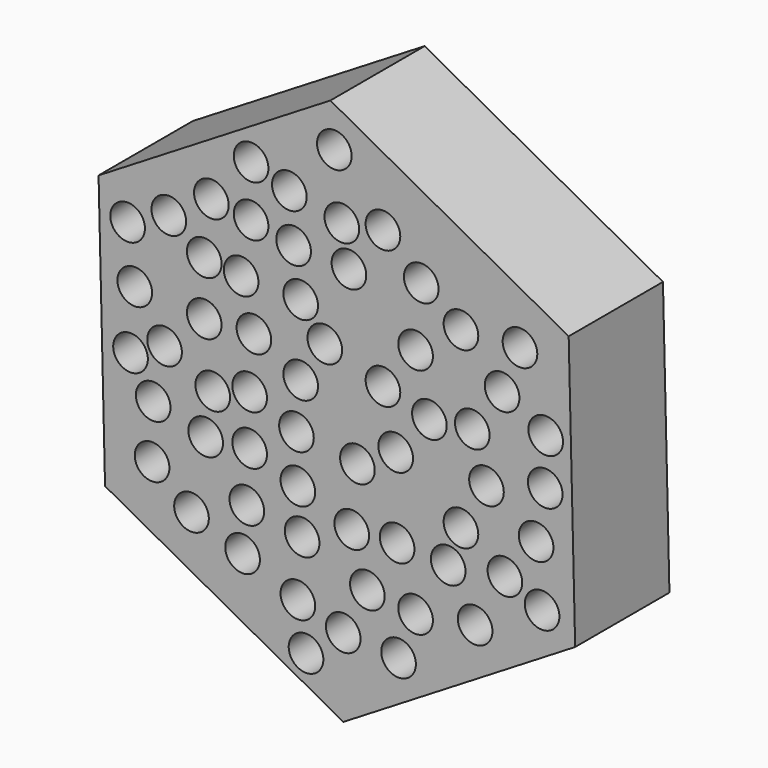
from build123d import *

# Parameters (mm, degrees)
F1_DEPTH = 12.7
F2_R     = 1.867032
F3_DEPTH = 14.478


with BuildPart() as f1:
    # F0 (on Front) → F1 (new body)
    with BuildSketch(Plane.XZ):
        Polygon((-0.699146, 29.252446), (-25.682935, 14.020745), (-24.983788, -15.231702), (0.699146, -29.252446), (25.682935, -14.020745), (24.983788, 15.231702), align=None)
    extrude(amount=F1_DEPTH)

    # F2 (on face) → F3 (cut)
    with BuildSketch(Plane.XZ.offset(12.7)):
        with Locations((-22.552457, 10.605652)):
            Circle(F2_R)
        with Locations((-19.917389, -11.265242)):
            Circle(F2_R)
        with Locations((-3.322549, -24.042027)):
            Circle(F2_R)
        with Locations((-4.203008, -8.466095)):
            Circle(F2_R)
        with Locations((9.971874, 2.4621)):
            Circle(F2_R)
        with Locations((22.114325, -11.681865)):
            Circle(F2_R)
        with Locations((21.476673, -5.378575)):
            Circle(F2_R)
        with Locations((22.459481, 0)):
            Circle(F2_R)
        with Locations((22.506732, 5.011312)):
            Circle(F2_R)
        with Locations((19.734677, 12.446447)):
            Circle(F2_R)
        with Locations((-0.272807, 24.720894)):
            Circle(F2_R)
        with Locations((-9.246618, 20.632951)):
            Circle(F2_R)
        with Locations((-9.246618, 15.130831)):
            Circle(F2_R)
        with Locations((-10.316476, 9.475874)):
            Circle(F2_R)
        with Locations((-8.940945, 4.432264)):
            Circle(F2_R)
        with Locations((-9.399456, -1.222693)):
            Circle(F2_R)
        with Locations((-9.399456, -6.571977)):
            Circle(F2_R)
        with Locations((-9.705129, -12.074097)):
            Circle(F2_R)
        with Locations((-10.163639, -16.812034)):
            Circle(F2_R)
        with Locations((-15.66576, -14.672321)):
            Circle(F2_R)
        with Locations((-14.137393, -7.030488)):
            Circle(F2_R)
        with Locations((-13.373209, -2.445387)):
            Circle(F2_R)
        with Locations((-14.290229, 4.126591)):
            Circle(F2_R)
        with Locations((-14.290229, 9.934384)):
            Circle(F2_R)
        with Locations((-13.526046, 15.742177)):
            Circle(F2_R)
        with Locations((-18.111147, 12.685444)):
            Circle(F2_R)
        with Locations((-21.779226, 4.737937)):
            Circle(F2_R)
        with Locations((-18.569656, 0.152837)):
            Circle(F2_R)
        with Locations((-19.79235, -5.50212)):
            Circle(F2_R)
        with Locations((-22.237737, -1.681203)):
            Circle(F2_R)
        with Locations((-5.120028, 19.257421)):
            Circle(F2_R)
        with Locations((-4.661518, 14.213812)):
            Circle(F2_R)
        with Locations((-3.897335, 9.323037)):
            Circle(F2_R)
        with Locations((-1.299111, 5.96063)):
            Circle(F2_R)
        with Locations((4.967192, 3.973754)):
            Circle(F2_R)
        with Locations((14.595903, 3.056734)):
            Circle(F2_R)
        with Locations((17.805472, 7.641834)):
            Circle(F2_R)
        with Locations((13.373209, 12.074097)):
            Circle(F2_R)
        with Locations((9.093783, 15.130831)):
            Circle(F2_R)
        with Locations((4.967192, 18.798912)):
            Circle(F2_R)
        with Locations((0.534929, 18.034728)):
            Circle(F2_R)
        with Locations((1.299111, 13.908138)):
            Circle(F2_R)
        with Locations((8.482436, 8.558854)):
            Circle(F2_R)
        with Locations((-3.897335, 1.681203)):
            Circle(F2_R)
        with Locations((-4.355845, -3.362407)):
            Circle(F2_R)
        with Locations((-3.744498, -13.143954)):
            Circle(F2_R)
        with Locations((-4.203008, -19.257421)):
            Circle(F2_R)
        with Locations((0.687765, -20.785788)):
            Circle(F2_R)
        with Locations((6.648396, -21.244299)):
            Circle(F2_R)
        with Locations((14.901575, -15.436505)):
            Circle(F2_R)
        with Locations((18.111147, -9.781547)):
            Circle(F2_R)
        with Locations((16.124269, -1.83404)):
            Circle(F2_R)
        with Locations((6.342723, -1.83404)):
            Circle(F2_R)
        with Locations((2.216131, -4.279427)):
            Circle(F2_R)
        with Locations((1.604785, -10.698567)):
            Circle(F2_R)
        with Locations((3.285989, -15.895015)):
            Circle(F2_R)
        with Locations((8.482436, -16.506363)):
            Circle(F2_R)
        with Locations((11.99768, -10.698567)):
            Circle(F2_R)
        with Locations((6.495558, -10.392894)):
            Circle(F2_R)
        with Locations((13.373209, -6.724814)):
            Circle(F2_R)
    extrude(amount=-F3_DEPTH, mode=Mode.SUBTRACT)


solid = f1.part
